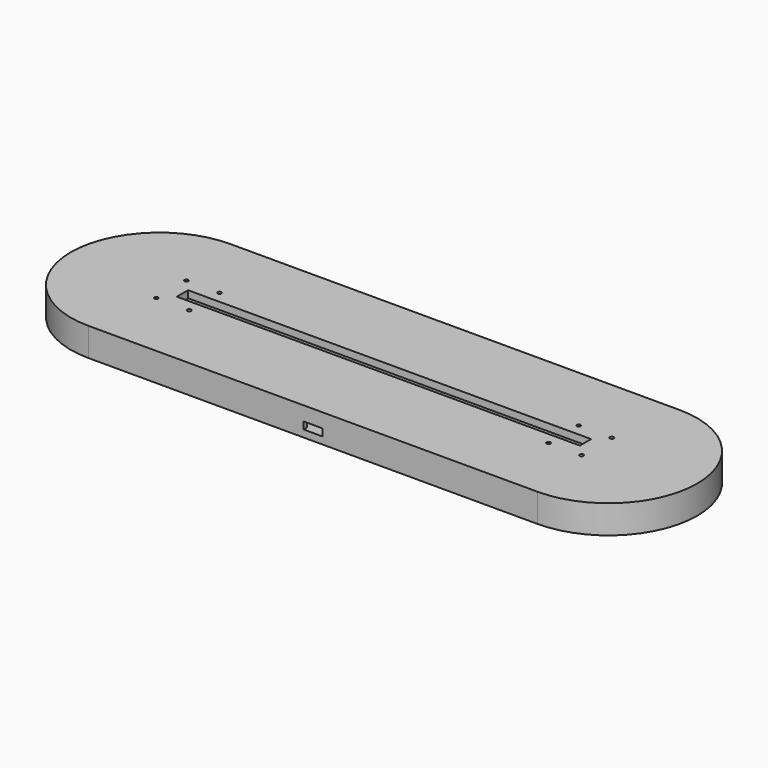
from build123d import *

# Parameters (mm, degrees)
PAD_DEPTH       = 6
POCKET_DEPTH    = 3
SKETCH002_W     = 18.4
SKETCH002_H     = 20.85
POCKET001_DEPTH = 3
SKETCH003_W     = 8
SKETCH003_H     = 1.65
POCKET002_DEPTH = 3
PAD001_DEPTH    = 3
SKETCH005_W     = 170.5
SKETCH005_H     = 5.95
PAD002_DEPTH    = 3
SKETCH007_R     = 0.8
POCKET003_DEPTH = 563.341185


with BuildPart() as part:
    # Sketch → Pad (new body)
    with BuildSketch(Plane.XY):
        with BuildLine():
            ThreePointArc((-95, 37.5), (-132.5, 0), (-95, -37.5))
            Line((-95, -37.5), (95, -37.5))
            ThreePointArc((95, -37.5), (132.5, 0), (95, 37.5))
            Line((-95, 37.5), (95, 37.5))
        make_face()
    extrude(amount=PAD_DEPTH)

    # Sketch001 (on Face6 of Pad) → Pocket (cut)
    with BuildSketch(Plane.XY.offset(6)):
        with BuildLine():
            ThreePointArc((-86, 6), (-92, 0), (-86, -6))
            Line((-86, -6), (86, -6))
            ThreePointArc((86, -6), (92, 0), (86, 6))
            Line((-86, 6), (86, 6))
        make_face()
    extrude(amount=-POCKET_DEPTH, mode=Mode.SUBTRACT)

    # Sketch002 (on Face5 of Pocket) → Pocket001 (cut)
    with BuildSketch(Plane.XY.offset(6)):
        with Locations((0, -25.425)):
            Rectangle(SKETCH002_W, SKETCH002_H)
    extrude(amount=-POCKET001_DEPTH, mode=Mode.SUBTRACT)

    # Sketch003 (on Face5 of Pocket001) → Pocket002 (cut)
    with BuildSketch(Plane.XY.offset(6)):
        with Locations((0, -36.675)):
            Rectangle(SKETCH003_W, SKETCH003_H)
    extrude(amount=-POCKET002_DEPTH, mode=Mode.SUBTRACT)

    # Sketch004 (on Face5 of Pocket002) → Pad001 (join)
    with BuildSketch(Plane.XY.offset(6)):
        with BuildLine():
            ThreePointArc((-95, 37.5), (-132.5, 0), (-95, -37.5))
            Line((-95, -37.5), (95, -37.5))
            ThreePointArc((95, -37.5), (132.5, 0), (95, 37.5))
            Line((-95, 37.5), (95, 37.5))
        make_face()
        with BuildLine():
            ThreePointArc((-86, 6), (-92, 0), (-86, -6))
            Line((-86, -6), (86, -6))
            ThreePointArc((86, -6), (92, 0), (86, 6))
            Line((-86, 6), (86, 6))
        make_face(mode=Mode.SUBTRACT)
    extrude(amount=PAD001_DEPTH)

    # Sketch005 (on Face12 of Pad001) → Pad002 (join)
    with BuildSketch(Plane.XY.offset(9)):
        with BuildLine():
            ThreePointArc((-95, 37.5), (-132.5, 0), (-95, -37.5))
            Line((-95, -37.5), (95, -37.5))
            ThreePointArc((95, -37.5), (132.5, 0), (95, 37.5))
            Line((-95, 37.5), (95, 37.5))
        make_face()
        Rectangle(SKETCH005_W, SKETCH005_H, mode=Mode.SUBTRACT)
    extrude(amount=PAD002_DEPTH)

    # Sketch007 (on Face20 of Pad002) → Pocket003 (cut, through all)
    with BuildSketch(Plane.XY.offset(12)):
        with Locations((-90, -8)):
            Circle(SKETCH007_R)
        with Locations((-90, 8)):
            Circle(SKETCH007_R)
        with Locations((-76, 8)):
            Circle(SKETCH007_R)
        with Locations((-76, -8)):
            Circle(SKETCH007_R)
    pocket003 = extrude(amount=-POCKET003_DEPTH, mode=Mode.SUBTRACT)

    # Mirrored: Pocket003 across Sketch007 V_Axis
    add(pocket003.mirror(Plane(origin=(0, 0, 12), x_dir=(0, 0, 1), z_dir=(1, 0, 0))), mode=Mode.SUBTRACT)


solid = part.part
